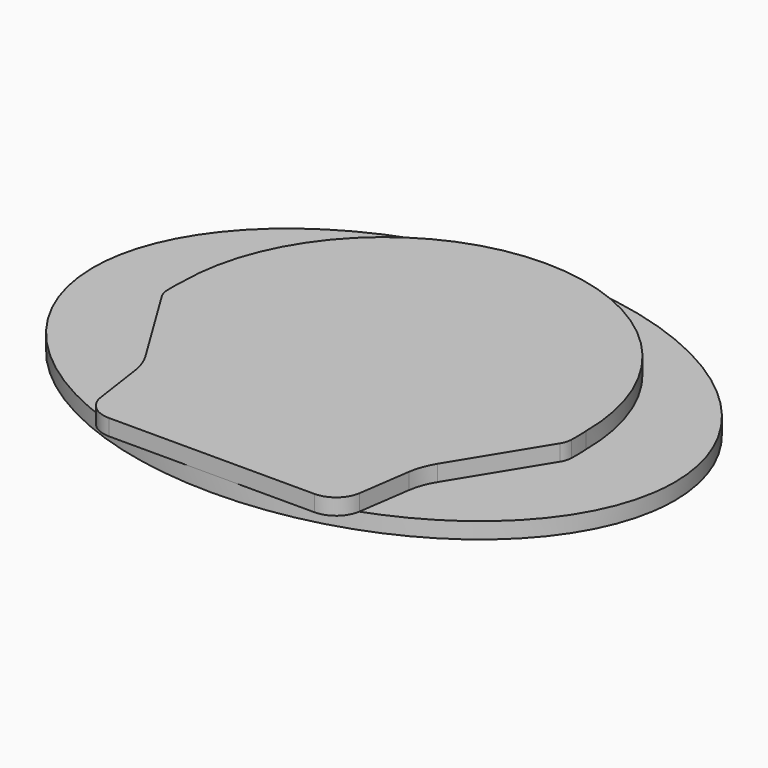
from build123d import *

# Parameters (mm, degrees)
F1_DEPTH = 19.05
F3_DEPTH = 19.05


with BuildPart() as f1:
    # F0 (on Top) → F1 (new body)
    with BuildSketch(Plane.XY):
        with BuildLine():
            add(Edge.make_bspline(
                [(342.9, 0), (342.9, 439.940905), (-171.45, 219.970453), (-685.8, 0), (-171.45, -219.970453), (342.9, -439.940905), (342.9, 0)],
                knots=[0, 0, 0, 2.094395, 2.094395, 4.18879, 4.18879, 6.283185, 6.283185, 6.283185], degree=2, weights=[1, 0.5, 1, 0.5, 1, 0.5, 1]))
        make_face()
    extrude(amount=F1_DEPTH)


with BuildPart() as f3:
    # F2 (on face) → F3 (new body)
    with BuildSketch(Plane.XY.offset(19.05)):
        with BuildLine():
            ThreePointArc((238.481554, -21.705496), (238.584737, -10.848124), (238.125, 0))
            ThreePointArc((238.125, 0), (0, 238.125), (-238.125, 0))
            ThreePointArc((-238.125, 0), (-238.584737, -10.848124), (-238.481554, -21.705496))
            ThreePointArc((-238.481554, -21.705496), (-237.418512, -28.130206), (-234.756827, -34.073471))
            Line((-234.756827, -34.073471), (-172.037154, -136.461997))
            ThreePointArc((-172.037154, -136.461997), (-165.337839, -150.40403), (-161.592072, -165.411705))
            Line((-161.592072, -165.411705), (-152.76213, -226.772318))
            ThreePointArc((-152.76213, -226.772318), (-142.126218, -246.246313), (-121.335849, -254))
            Line((-121.335849, -254), (121.335849, -254))
            ThreePointArc((121.335849, -254), (142.126218, -246.246313), (152.76213, -226.772318))
            Line((152.76213, -226.772318), (161.592072, -165.411705))
            ThreePointArc((161.592072, -165.411705), (165.337839, -150.40403), (172.037154, -136.461997))
            Line((172.037154, -136.461997), (234.756827, -34.073471))
            ThreePointArc((234.756827, -34.073471), (237.418512, -28.130206), (238.481554, -21.705496))
        make_face()
    extrude(amount=F3_DEPTH)


solid = Compound([f1.part, f3.part])
